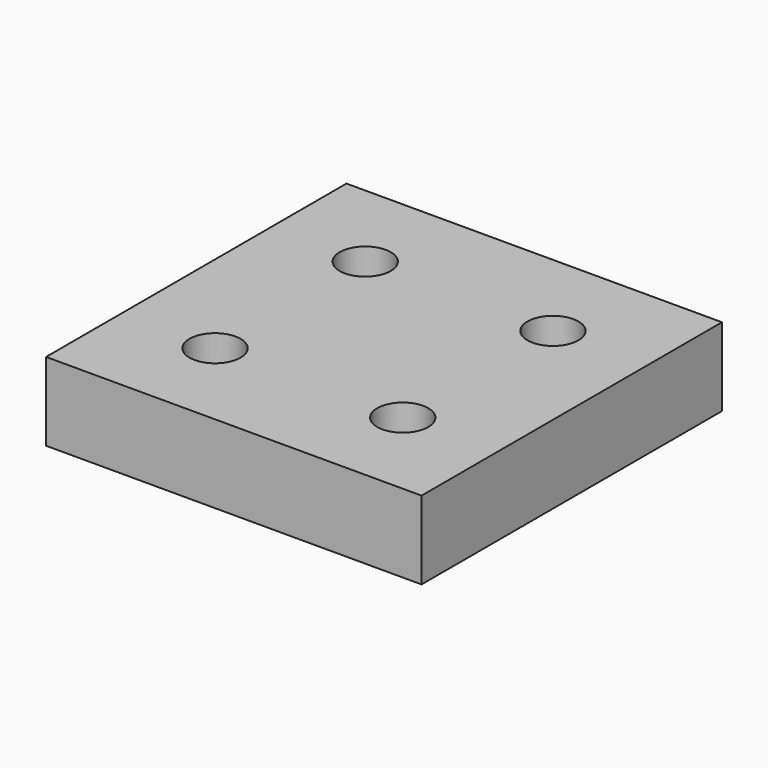
from build123d import *

# Parameters (mm, degrees)
F0_W     = 24
F0_H     = 24
F0_W_2   = 7
F0_H_2   = 7
F0_R     = 1.63195
F1_DEPTH = 5


with BuildPart() as f1:
    # F0 (on Top) → F1 (new body)
    with BuildSketch(Plane.XY):
        Rectangle(F0_W, F0_H)
        with Locations((-6, -6)):
            Rectangle(F0_W_2, F0_H_2, mode=Mode.SUBTRACT)
        with Locations((6, -6)):
            Rectangle(F0_W_2, F0_H_2, mode=Mode.SUBTRACT)
        with Locations((-6, 6)):
            Rectangle(F0_W_2, F0_H_2, mode=Mode.SUBTRACT)
        with Locations((6, 6)):
            Rectangle(F0_W_2, F0_H_2, mode=Mode.SUBTRACT)
        with Locations((-6, 6)):
            Rectangle(F0_W_2, F0_H_2)
        with Locations((-6, 6)):
            Circle(F0_R, mode=Mode.SUBTRACT)
        with Locations((6, 6)):
            Rectangle(F0_W_2, F0_H_2)
        with Locations((6, 6)):
            Circle(F0_R, mode=Mode.SUBTRACT)
        with Locations((6, -6)):
            Rectangle(F0_W_2, F0_H_2)
        with Locations((6, -6)):
            Circle(F0_R, mode=Mode.SUBTRACT)
        with Locations((-6, -6)):
            Rectangle(F0_W_2, F0_H_2)
        with Locations((-6, -6)):
            Circle(F0_R, mode=Mode.SUBTRACT)
    extrude(amount=F1_DEPTH)


solid = f1.part
